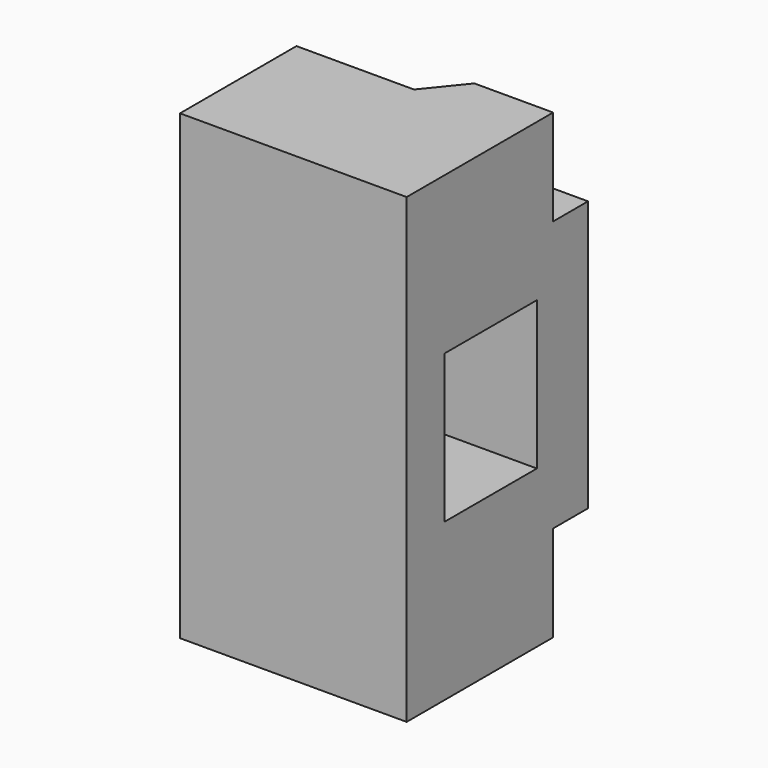
from build123d import *

# Parameters (mm, degrees)
PAD_DEPTH       = 26.5
SKETCH002_W     = 5
SKETCH002_H     = 11
POCKET_DEPTH    = 155.012627
SKETCH003_W     = 16.7
SKETCH003_H     = 7
PAD001_DEPTH    = 26
SKETCH005_W     = 13.225
SKETCH005_H     = 17
POCKET001_DEPTH = 26.001


with BuildPart() as part:
    # Sketch → Pad (new body, symmetric)
    with BuildSketch(Plane.XY):
        Polygon((0, 0), (-26, 0), (-5, 26), (0, 26), align=None)
    extrude(amount=PAD_DEPTH, both=True)

    # Sketch002 (on Face4 of Pad) → Pocket (cut, through all)
    with BuildSketch(Plane.YZ):
        with Locations((23.5, 21)):
            Rectangle(SKETCH002_W, SKETCH002_H)
    pocket = extrude(amount=-POCKET_DEPTH, mode=Mode.SUBTRACT)

    # Mirrored: Pocket across Sketch002 H_Axis
    add(pocket.mirror(Plane.XY), mode=Mode.SUBTRACT)

    # Sketch003 (on Face2 of Mirrored) → Pad001 (join)
    with BuildSketch(Plane.YZ):
        with Locations((8.35, 23)):
            Rectangle(SKETCH003_W, SKETCH003_H)
    pad001 = extrude(amount=-PAD001_DEPTH)

    # Mirrored001: Pad001 across Sketch003 H_Axis
    add(pad001.mirror(Plane.XY))

    # Sketch005 (on Face12 of Mirrored001) → Pocket001 (cut, through all)
    with BuildSketch(Plane.YZ):
        with Locations((12.058088, 0)):
            Rectangle(SKETCH005_W, SKETCH005_H)
    extrude(amount=-POCKET001_DEPTH, mode=Mode.SUBTRACT)


solid = part.part
